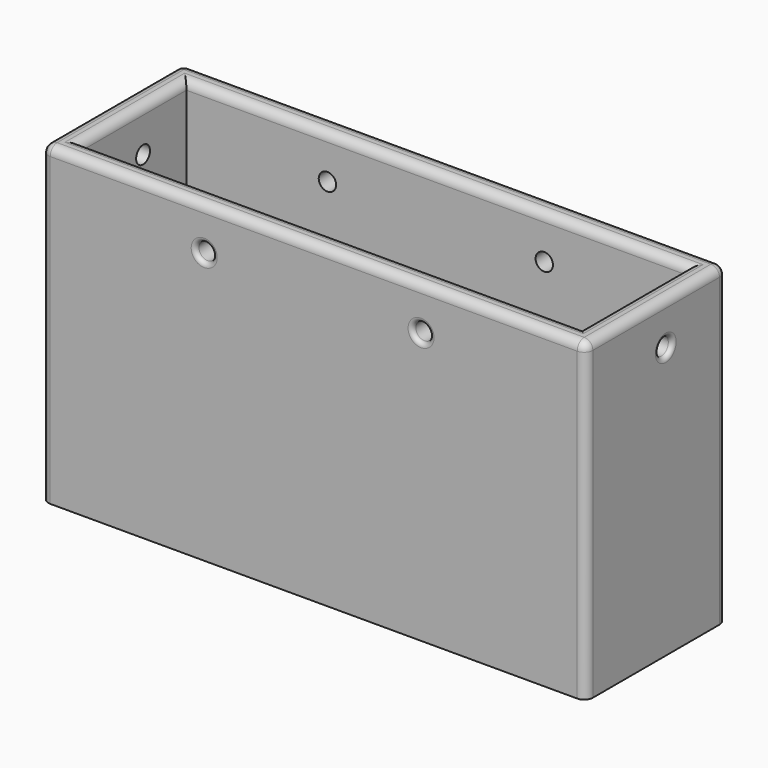
from build123d import *

# Parameters (mm, degrees)
SKETCH_W        = 125.5
SKETCH_H        = 40.5
PAD_DEPTH       = 72.5
SKETCH001_W     = 115.5
SKETCH001_H     = 30.5
POCKET_DEPTH    = 67.5
SKETCH002_R     = 8
POCKET001_DEPTH = 72.5
SKETCH003_R     = 2
POCKET002_DEPTH = 40.501
SKETCH004_R     = 2
POCKET003_DEPTH = 125.501
FILLET_R        = 2
FILLET001_R     = 2
FILLET002_R     = 1


with BuildPart() as part:
    # Sketch → Pad (new body)
    with BuildSketch(Plane.XY):
        with Locations((62.75, 20.25)):
            Rectangle(SKETCH_W, SKETCH_H)
    extrude(amount=PAD_DEPTH)

    # Sketch001 (on DatumPlane) → Pocket (cut)
    with BuildSketch(Plane.XY.offset(72.5)):
        with Locations((62.75, 20.25)):
            Rectangle(SKETCH001_W, SKETCH001_H)
    extrude(amount=-POCKET_DEPTH, mode=Mode.SUBTRACT)

    # Sketch002 (on DatumPlane) → Pocket001 (cut)
    with BuildSketch(Plane.XY.offset(72.5)):
        with Locations((33.88, 20.25)):
            Circle(SKETCH002_R)
        with Locations((77.19, 20.25)):
            Circle(SKETCH002_R)
        with Locations((106.07, 20.25)):
            Circle(SKETCH002_R)
    extrude(amount=-POCKET001_DEPTH, mode=Mode.SUBTRACT)

    # Sketch003 (on DatumPlane) → Pocket002 (cut, through all)
    with BuildSketch(Plane.XZ):
        with Locations((37.5, 62.5)):
            Circle(SKETCH003_R)
        with Locations((87.5, 62.5)):
            Circle(SKETCH003_R)
    extrude(amount=-POCKET002_DEPTH, mode=Mode.SUBTRACT)

    # Sketch004 (on DatumPlane) → Pocket003 (cut, through all)
    with BuildSketch(Plane(origin=(0, 0, 0), x_dir=(0, -1, 0), z_dir=(-1, 0, 0))):
        with Locations((-23, 62.5)):
            Circle(SKETCH004_R)
    extrude(amount=-POCKET003_DEPTH, mode=Mode.SUBTRACT)

    # Fillet
    fillet_edges = [part.edges().sort_by_distance(p)[0] for p in [
        (62.75, 0, 72.5),
        (0, 20.25, 72.5),
        (125.5, 20.25, 72.5),
        (62.75, 40.5, 72.5),
        (62.75, 5, 72.5),
        (120.5, 20.25, 72.5),
        (62.75, 35.5, 72.5),
        (5, 20.25, 72.5),
        (0, 0, 36.25),
        (0, 40.5, 36.25),
        (125.5, 40.5, 36.25),
        (125.5, 0, 36.25),
    ]]
    fillet(fillet_edges, radius=FILLET_R)

    # Fillet001
    fillet001_edges = [part.edges().sort_by_distance(p)[0] for p in [
        (5, 20.25, 5),
        (62.75, 35.5, 5),
        (62.75, 5, 5),
        (120.5, 20.25, 5),
    ]]
    fillet(fillet001_edges, radius=FILLET001_R)

    # Fillet002
    fillet002_edges = [part.edges().sort_by_distance(p)[0] for p in [
        (35.5, 0, 62.5),
        (85.5, 0, 62.5),
        (125.5, 25, 62.5),
        (85.5, 40.5, 62.5),
        (35.5, 40.5, 62.5),
        (0, 25, 62.5),
    ]]
    fillet(fillet002_edges, radius=FILLET002_R)


solid = part.part
